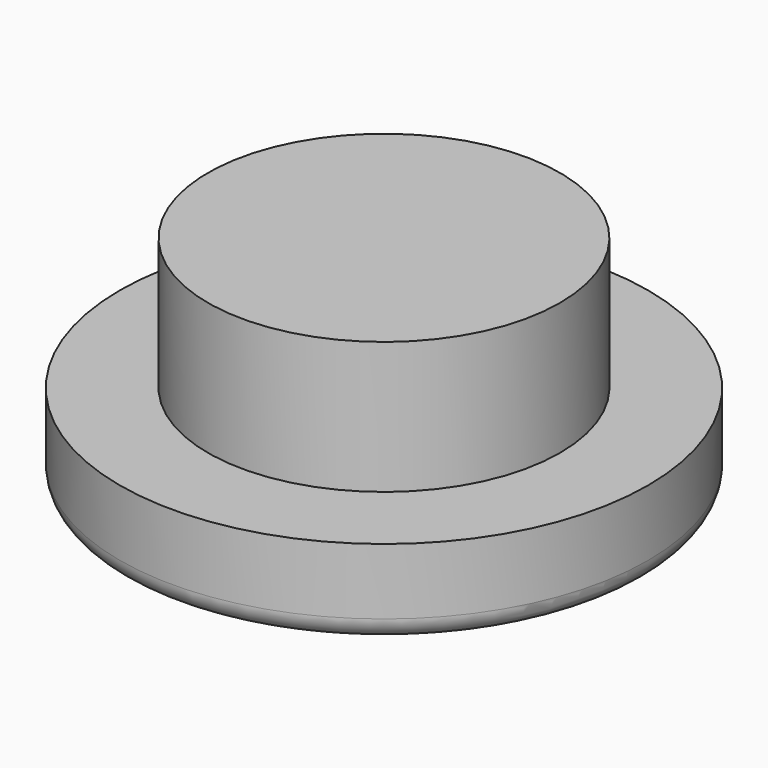
from build123d import *

# Parameters (mm, degrees)
F0_R     = 6
F1_DEPTH = 2
F2_R     = 4
F3_DEPTH = 5
F4_R     = 0.5


with BuildPart() as f1:
    # F0 (on Top) → F1 (new body)
    with BuildSketch(Plane.XY):
        Circle(F0_R)
    extrude(amount=F1_DEPTH)

    # F2 (on Top) → F3 (join)
    with BuildSketch(Plane.XY):
        Circle(F2_R)
    extrude(amount=F3_DEPTH)

    # F4
    f4_edges = [f1.edges().sort_by_distance(p)[0] for p in [
        (-6, 0, 0),
    ]]
    fillet(f4_edges, radius=F4_R)


solid = f1.part
